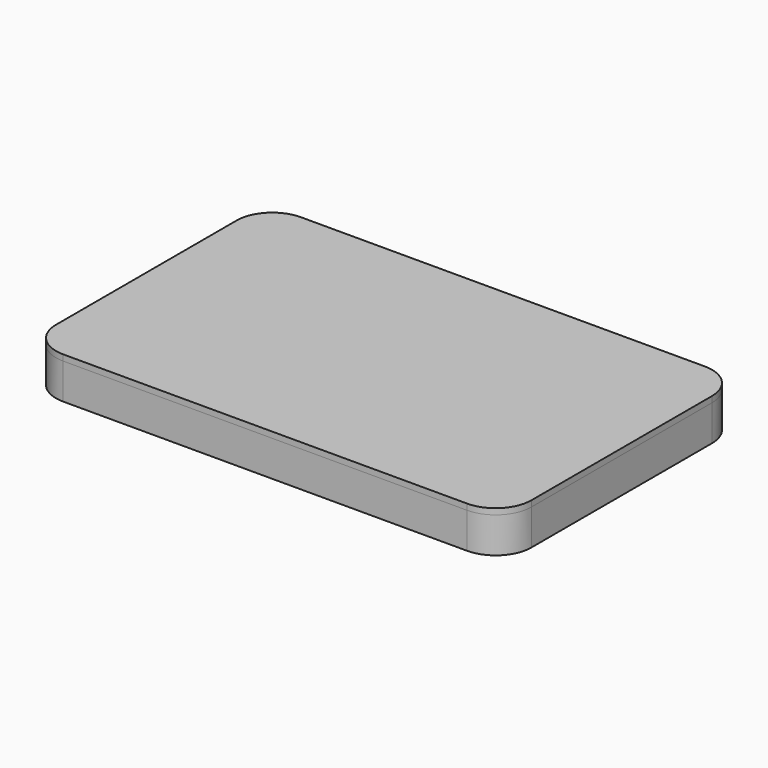
from build123d import *

# Parameters (mm, degrees)
F0_W     = 400
F0_H     = 250
F1_DEPTH = 30
F2_R     = 30
F3_DEPTH = 5


with BuildPart() as f1:
    # F0 (on Top) → F1 (new body)
    with BuildSketch(Plane.XY):
        Rectangle(F0_W, F0_H)
    extrude(amount=F1_DEPTH)

    # F2
    f2_edges = [f1.edges().sort_by_distance(p)[0] for p in [
        (-200, -125, 15),
        (200, -125, 15),
        (200, 125, 15),
        (-200, 125, 15),
    ]]
    fillet(f2_edges, radius=F2_R)


with BuildPart() as f3:
    # F1_face (on face) → F3 (new body)
    with BuildSketch(Plane.XY.offset(30)):
        with BuildLine():
            Line((-170, -125), (170, -125))
            ThreePointArc((170, -125), (191.213203, -116.213203), (200, -95))
            Line((200, -95), (200, 95))
            ThreePointArc((200, 95), (191.213203, 116.213203), (170, 125))
            Line((170, 125), (-170, 125))
            ThreePointArc((-170, 125), (-191.213203, 116.213203), (-200, 95))
            Line((-200, 95), (-200, -95))
            ThreePointArc((-200, -95), (-191.213203, -116.213203), (-170, -125))
        make_face()
    extrude(amount=F3_DEPTH)


solid = Compound([f1.part, f3.part])
